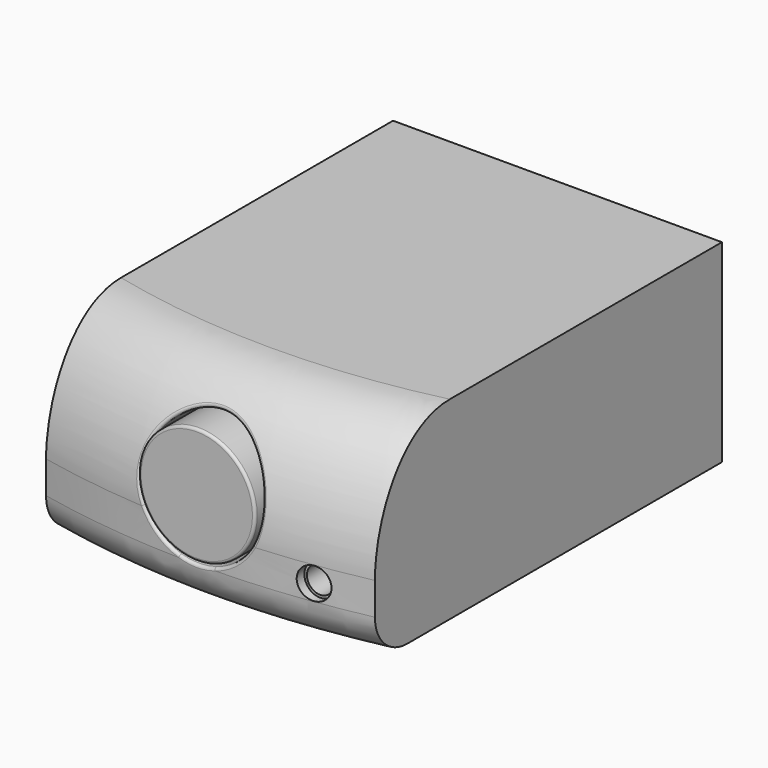
from build123d import *

# Parameters (mm, degrees)
F1_DEPTH  = 73
F4_R      = 15
F5_R      = 23
F6_DEPTH  = 25
F7_R      = 1
F8_R      = 22
F9_DEPTH  = 25
F10_R     = 1
F11_R     = 5.9
F12_DEPTH = 5.776
F13_R     = 4.95
F14_DEPTH = 19


with BuildPart() as f1:
    # F0 (on Top) → F1 (new body)
    with BuildSketch(Plane.XY):
        with BuildLine():
            Line((124, 170), (0, 170))
            Line((0, 170), (0, 6.4765767439))
            ThreePointArc((0, 6.4765767439), (62, 0), (124, 6.4765767439))
            Line((124, 6.4765767439), (124, 170))
        make_face()
    extrude(amount=F1_DEPTH)

    # F2 (on face) → F3 (revolve, cut)
    with BuildSketch(Plane(origin=(0, 0, 0), x_dir=(0, -1, 0), z_dir=(-1, 0, 0))):
        with BuildLine():
            Line((4.2734915467, 0), (4.2734915467, 73))
            Line((4.2734915467, 73), (-41.7740754783, 73))
            add(Edge.make_bspline(
                [(-41.7740754783, 73), (-19.0017276995, 73), (-6.4765767439, 47.6772180576), (-6.4765767439, 27.189235397)],
                knots=[0, 0, 0, 0, 0.5570327747, 0.5570327747, 0.5570327747, 0.5570327747], degree=3))
            Line((-6.4765767439, 27.189235397), (-6.4765767439, 0))
            Line((-6.4765767439, 0), (4.2734915467, 0))
        make_face()
    revolve(axis=Axis((62, 300, 0), (0, 0, -1)), mode=Mode.SUBTRACT)

    # F4
    f4_edges = [f1.edges().sort_by_distance(p)[0] for p in [
        (62, 0, 0),
    ]]
    fillet(f4_edges, radius=F4_R)

    # F5 (on Front) → F6 (cut)
    with BuildSketch(Plane.XZ):
        with Locations((62, 38)):
            Circle(F5_R)
    extrude(amount=-F6_DEPTH, mode=Mode.SUBTRACT)

    # F7
    f7_edges = [f1.edges().sort_by_distance(p)[0] for p in [
        (84.321276, 1.092016, 32.453774),
        (56.414529, 10.754814, 60.311488),
    ]]
    fillet(f7_edges, radius=F7_R)

    # F11 (on Front) → F12 (cut)
    with BuildSketch(Plane.XZ):
        with Locations((103.8468026996, 21.099235397)):
            Circle(F11_R)
    extrude(amount=-F12_DEPTH, mode=Mode.SUBTRACT)

    # F13 (on face) → F14 (cut)
    with BuildSketch(Plane.XZ.offset(-5.776)):
        with Locations((103.8468026996, 21.099235397)):
            Circle(F13_R)
    extrude(amount=-F14_DEPTH, mode=Mode.SUBTRACT)


with BuildPart() as f9:
    # F8 (on Front) → F9 (new body)
    with BuildSketch(Plane.XZ):
        with Locations((62, 38)):
            Circle(F8_R)
    extrude(amount=-F9_DEPTH)

    # F10
    f10_edges = [f9.edges().sort_by_distance(p)[0] for p in [
        (40, 0, 38),
    ]]
    fillet(f10_edges, radius=F10_R)


solid = Compound([f1.part, f9.part])
